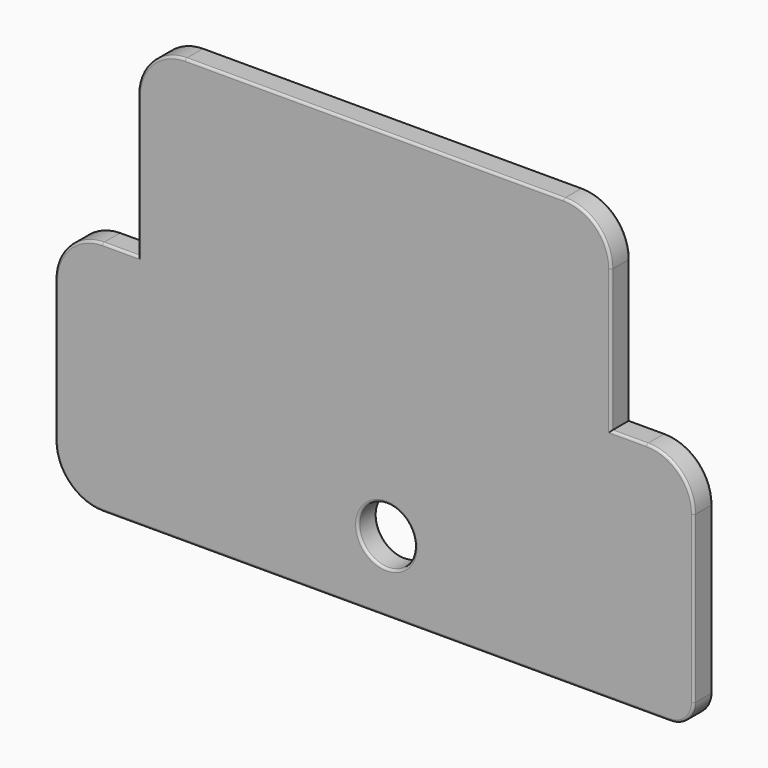
from build123d import *

# Parameters (mm, degrees)
F1_DEPTH = 20
F3_R     = 2
F5_DEPTH = 25
F6_R     = 2


with BuildPart() as f1:
    # F0 (on Front) → F1 (new body)
    with BuildSketch(Plane.XZ):
        with BuildLine():
            Line((-230, -180), (250, -180))
            ThreePointArc((250, -180), (264.142136, -174.142136), (270, -160))
            Line((270, -160), (270, -20))
            ThreePointArc((270, -20), (258.284271, 8.284271), (230, 20))
            Line((230, 20), (200, 20))
            Line((200, 20), (200, 140))
            ThreePointArc((200, 140), (188.284271, 168.284271), (160, 180))
            Line((160, 180), (-160, 180))
            ThreePointArc((-160, 180), (-188.284271, 168.284271), (-200, 140))
            Line((-200, 140), (-200, 20))
            Line((-200, 20), (-230, 20))
            ThreePointArc((-230, 20), (-258.284271, 8.284271), (-270, -20))
            Line((-270, -20), (-270, -140))
            ThreePointArc((-270, -140), (-258.284271, -168.284271), (-230, -180))
        make_face()
    extrude(amount=F1_DEPTH)

    # F3
    f3_edges = [f1.edges().sort_by_distance(p)[0] for p in [
        (10, -20, -180),
        (264.142136, -20, -174.142136),
        (270, -20, -90),
        (258.284271, -20, 8.284271),
        (215, -20, 20),
        (200, -20, 80),
        (188.284271, -20, 168.284271),
        (0, -20, 180),
        (-188.284271, -20, 168.284271),
        (-200, -20, 80),
        (-215, -20, 20),
        (-258.284271, -20, 8.284271),
        (-270, -20, -80),
        (-258.284271, -20, -168.284271),
        (10, 0, -180),
        (264.142136, 0, -174.142136),
        (270, 0, -90),
        (258.284271, 0, 8.284271),
        (215, 0, 20),
        (200, 0, 80),
        (188.284271, 0, 168.284271),
        (0, 0, 180),
        (-188.284271, 0, 168.284271),
        (-200, 0, 80),
        (-215, 0, 20),
        (-258.284271, 0, 8.284271),
        (-270, 0, -80),
        (-258.284271, 0, -168.284271),
    ]]
    fillet(f3_edges, radius=F3_R)

    # F4 (on face) → F5 (cut)
    with BuildSketch(Plane.XZ.offset(20)):
        with BuildLine():
            ThreePointArc((-14, -120), (10, -144), (34, -120))
            ThreePointArc((34, -120), (10, -96), (-14, -120))
        make_face()
    extrude(amount=-F5_DEPTH, mode=Mode.SUBTRACT)

    # F6
    f6_edges = [f1.edges().sort_by_distance(p)[0] for p in [
        (34, -20, -120),
        (34, 0, -120),
    ]]
    fillet(f6_edges, radius=F6_R)


solid = f1.part
